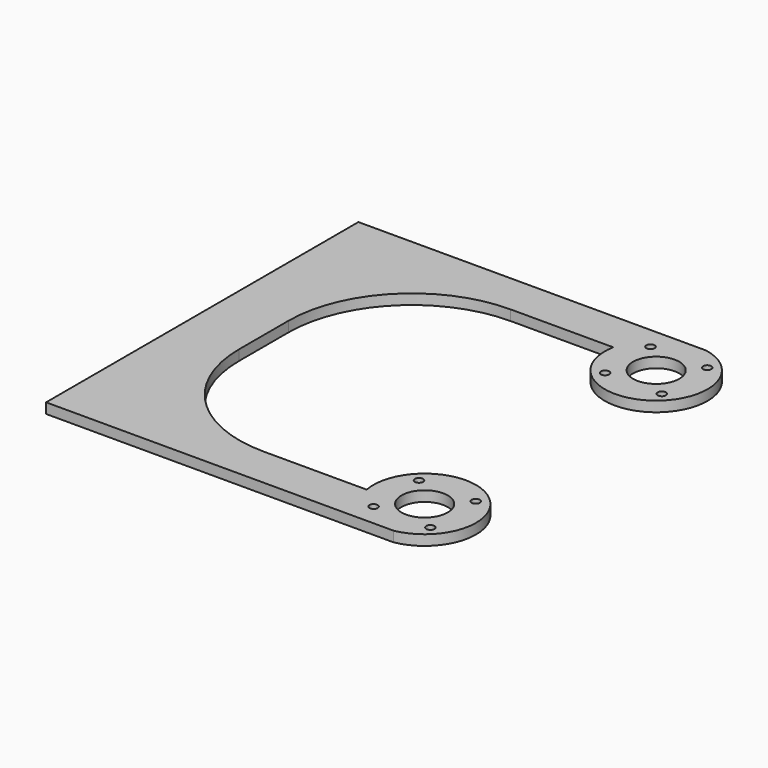
from build123d import *

# Parameters (mm, degrees)
F0_R     = 2.5527
F0_R_2   = 14.2875
F1_DEPTH = 6.35
F2_R     = 76.2
F3_R     = 76.2
F4_W     = 30.394944
F4_H     = 7.431119
F4_W_2   = 30.836145
F4_H_2   = 7.137986
F5_DEPTH = 25.4


with BuildPart() as f1:
    # F0 (on Top) → F1 (new body)
    with BuildSketch(Plane.XY):
        with BuildLine():
            Line((-143.202675, -118.942378), (59.997325, -118.942378))
            ThreePointArc((59.997325, -118.942378), (88.261238, -65.278465), (34.597325, -93.542378))
            Line((34.597325, -93.542378), (-105.102675, -93.542378))
            Line((-105.102675, -93.542378), (-105.102675, 96.957622))
            Line((-105.102675, 96.957622), (34.597325, 96.957622))
            ThreePointArc((34.597325, 96.957622), (88.261238, 68.69371), (59.997325, 122.357622))
            Line((59.997325, 122.357622), (-143.202675, 122.357622))
            Line((-143.202675, 122.357622), (-143.202675, -118.942378))
        make_face()
        with Locations((48.284597, -105.255106)):
            Circle(F0_R, mode=Mode.SUBTRACT)
        with Locations((83.336597, -105.255106)):
            Circle(F0_R, mode=Mode.SUBTRACT)
        with Locations((65.810597, -87.729106)):
            Circle(F0_R_2, mode=Mode.SUBTRACT)
        with Locations((48.284597, -70.203106)):
            Circle(F0_R, mode=Mode.SUBTRACT)
        with Locations((83.336597, -70.203106)):
            Circle(F0_R, mode=Mode.SUBTRACT)
        with Locations((48.284597, 73.61835)):
            Circle(F0_R, mode=Mode.SUBTRACT)
        with Locations((65.810597, 91.14435)):
            Circle(F0_R_2, mode=Mode.SUBTRACT)
        with Locations((83.336597, 73.61835)):
            Circle(F0_R, mode=Mode.SUBTRACT)
        with Locations((48.284597, 108.67035)):
            Circle(F0_R, mode=Mode.SUBTRACT)
        with Locations((83.336597, 108.67035)):
            Circle(F0_R, mode=Mode.SUBTRACT)
    extrude(amount=F1_DEPTH)

    # F2
    f2_edges = [f1.edges().sort_by_distance(p)[0] for p in [
        (-105.102675, 96.957622, 3.175),
    ]]
    fillet(f2_edges, radius=F2_R)

    # F3
    f3_edges = [f1.edges().sort_by_distance(p)[0] for p in [
        (-105.102675, -93.542378, 3.175),
    ]]
    fillet(f3_edges, radius=F3_R)

    # F4 (on face) → F5 (cut)
    with BuildSketch(Plane.XY.offset(6.35)):
        with Locations((75.194797, 126.073181)):
            Rectangle(F4_W, F4_H)
        with Locations((75.415397, -122.511371)):
            Rectangle(F4_W_2, F4_H_2)
    extrude(amount=-F5_DEPTH, mode=Mode.SUBTRACT)


solid = f1.part
